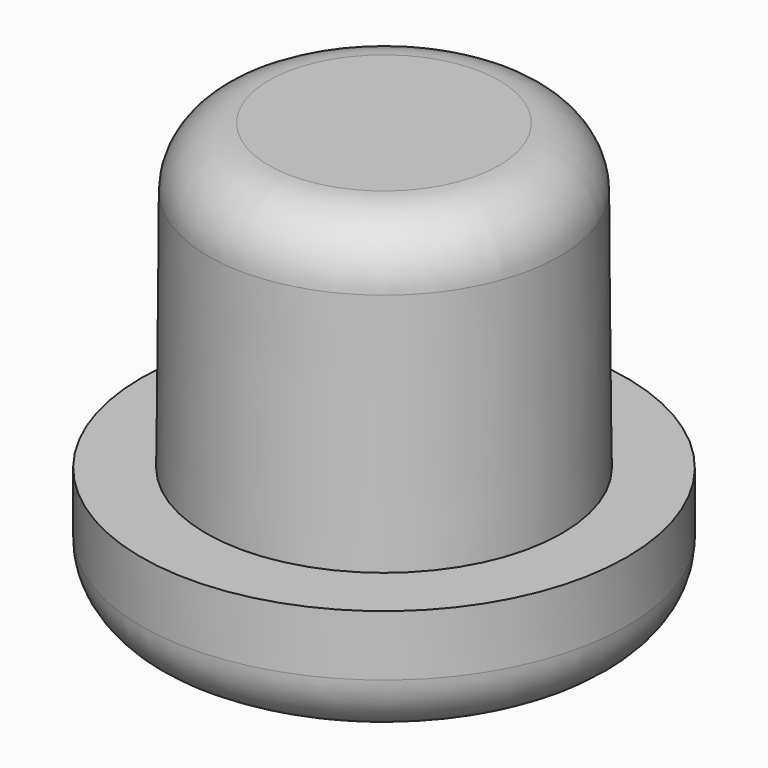
from build123d import *

# Parameters (mm, degrees)
F0_R     = 2.95
F1_DEPTH = 7
F1_TAPER = 0.5
F0_R_2   = 4
F2_DEPTH = 2
F3_R     = 1


with BuildPart() as f1:
    # F0 (on Top) → F1 (new body)
    with BuildSketch(Plane.XY):
        Circle(F0_R)
    extrude(amount=F1_DEPTH, taper=F1_TAPER)

    # F0 (on Top) → F2 (join)
    with BuildSketch(Plane.XY):
        Circle(F0_R_2)
        Circle(F0_R, mode=Mode.SUBTRACT)
        Circle(F0_R)
    extrude(amount=F2_DEPTH)

    # F3
    f3_edges = [f1.edges().sort_by_distance(p)[0] for p in [
        (-4, 0, 0),
        (-2.888912, 0, 7),
    ]]
    fillet(f3_edges, radius=F3_R)


solid = f1.part
